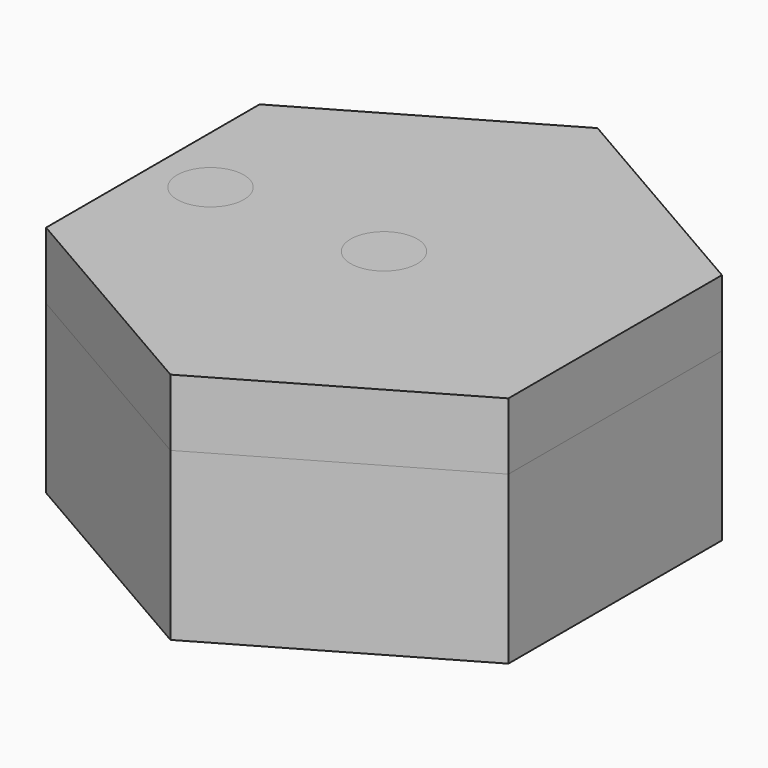
from build123d import *

# Parameters (mm, degrees)
F1_DEPTH         = 25
F3_DEPTH         = 10
F5_D             = 5
F5_DEPTH         = 30
F5_CSINK_D       = 10
F5_CSINK_ANGLE   = 90
F5_TIP           = 1.5021515476
F5_2_D           = 5
F5_2_DEPTH       = 30
F5_2_CSINK_D     = 10
F5_2_CSINK_ANGLE = 90
F5_2_TIP         = 1.5021515476
F6_R             = 5
F7_DEPTH         = 35
F10_D            = 5
F10_DEPTH        = 5
F10_CSINK_D      = 10
F10_CSINK_ANGLE  = 90
F10_TIP          = 1.5021515476
F11_R            = 5
F12_DEPTH        = 10


with BuildPart() as f1:
    # F0 (on Top) → F1 (new body)
    with BuildSketch(Plane.XY):
        Polygon((0, 40), (-34.6410161514, 20), (-34.6410161514, -20), (0, -40), (34.6410161514, -20), (34.6410161514, 20), align=None)
    extrude(amount=F1_DEPTH)

    # F5
    with Locations(Plane.XY.offset(35)):
        with Locations((-26, 0)):
            CounterSinkHole(F5_D / 2, F5_CSINK_D / 2, depth=F5_DEPTH, counter_sink_angle=F5_CSINK_ANGLE)
            with Locations((0, 0, -(F5_DEPTH + F5_TIP / 2))):  # 118° drill point
                Cone(0, F5_D / 2, F5_TIP, mode=Mode.SUBTRACT)


with BuildPart() as f3:
    # F2 (on face) → F3 (new body)
    with BuildSketch(Plane.XY.offset(25)):
        Polygon((34.6410161514, 20), (0, 40), (-34.6410161514, 20), (-34.6410161514, -20), (0, -40), (34.6410161514, -20), align=None)
    extrude(amount=F3_DEPTH)

    # F5#2
    with Locations(Plane.XY.offset(35)):
        with Locations((-26, 0)):
            CounterSinkHole(F5_2_D / 2, F5_2_CSINK_D / 2, depth=F5_2_DEPTH, counter_sink_angle=F5_2_CSINK_ANGLE)
            with Locations((0, 0, -(F5_2_DEPTH + F5_2_TIP / 2))):  # 118° drill point
                Cone(0, F5_2_D / 2, F5_2_TIP, mode=Mode.SUBTRACT)


with BuildPart() as f7:
    # F6 (on face) → F7 (new body, through all)
    with BuildSketch(Plane.XY.offset(35)):
        with Locations((-26, 0)):
            Circle(F6_R)
    extrude(amount=-F7_DEPTH)

    # F8: cut F3, F1
    add(f3.part, mode=Mode.SUBTRACT)
    add(f1.part, mode=Mode.SUBTRACT)


with BuildPart() as f3_1:
    add(f3.part)

    # F10
    with Locations(Plane.XY.offset(35)):
        with Locations((0, 0)):
            CounterSinkHole(F10_D / 2, F10_CSINK_D / 2, depth=F10_DEPTH, counter_sink_angle=F10_CSINK_ANGLE)
            with Locations((0, 0, -(F10_DEPTH + F10_TIP / 2))):  # 118° drill point
                Cone(0, F10_D / 2, F10_TIP, mode=Mode.SUBTRACT)


with BuildPart() as f12:
    # F11 (on face) → F12 (new body, through all)
    with BuildSketch(Plane.XY.offset(35)):
        Circle(F11_R)
    extrude(amount=-F12_DEPTH)

    # F13: cut F3
    add(f3_1.part, mode=Mode.SUBTRACT)


solid = Compound([f1.part, f7.part, f3_1.part, f12.part])
